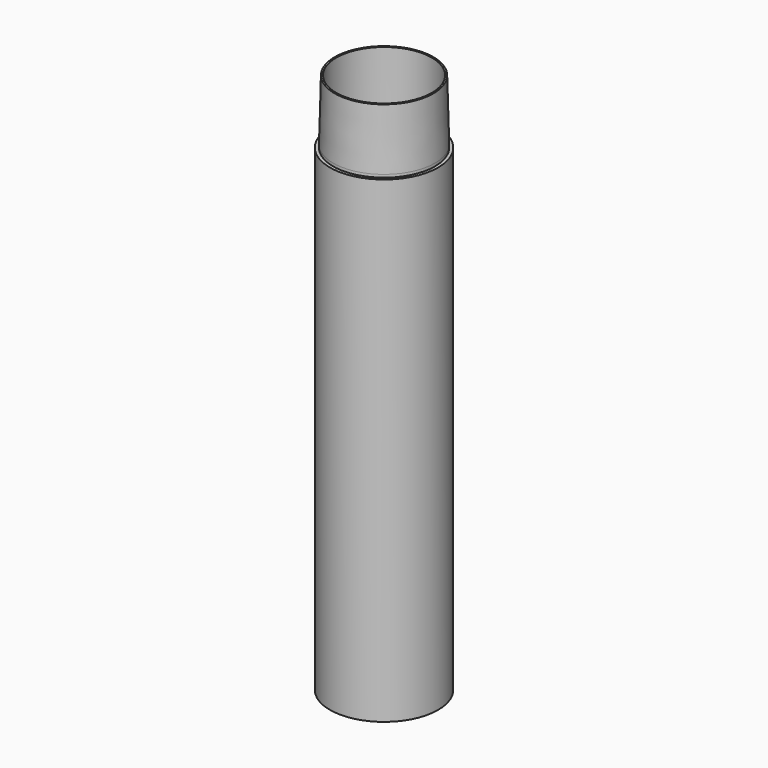
from build123d import *

# Parameters (mm, degrees)
F0_R          = 17
F0_R_2        = 16
F1_DEPTH      = 150
F2_R          = 16
F2_R_2        = 15
F3_DEPTH      = 20
F3_DEPTH_BACK = 20
F4_SIZE2      = 19.0942296485
F4_SIZE       = 0.5


with BuildPart() as f1:
    # F0 (on Top) → F1 (new body)
    with BuildSketch(Plane.XY):
        Circle(F0_R)
        Circle(F0_R_2, mode=Mode.SUBTRACT)
    extrude(amount=F1_DEPTH)

    # F2 (on face) → F3 (join, two sides)
    with BuildSketch(Plane.XY.offset(150)) as f3_sk:
        Circle(F2_R)
        Circle(F2_R_2, mode=Mode.SUBTRACT)
    extrude(amount=F3_DEPTH)
    extrude(f3_sk.sketch, amount=-F3_DEPTH_BACK)

    # F4
    f4_edges = [f1.edges().sort_by_distance(p)[0] for p in [
        (-16, 0, 170),
    ]]
    f4_side = f1.faces().sort_by_distance((-15.547452, 0, 170))[0]
    chamfer(f4_edges, length=F4_SIZE, length2=F4_SIZE2, reference=f4_side)


solid = f1.part
